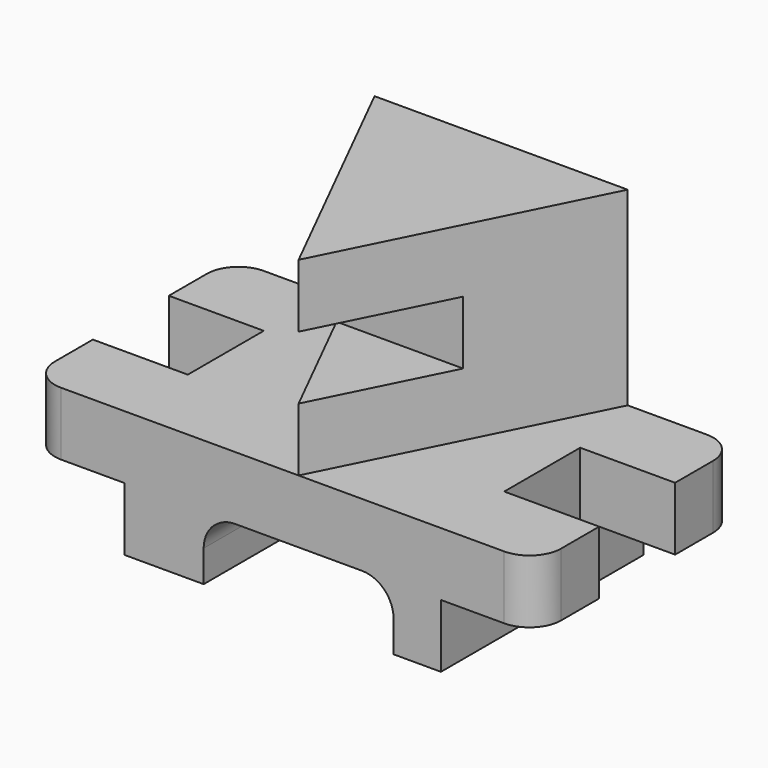
from build123d import *

# Parameters (mm, degrees)
F1_DEPTH  = 50.8
F3_DEPTH  = 76.2
F5_DEPTH  = 50.8
F7_DEPTH  = 101.601
F8_W      = 25.4
F8_H      = 25.4
F8_W_2    = 12.7
F9_DEPTH  = 101.601
F10_W     = 12.7
F10_H     = 25.4
F10_W_2   = 25.4
F11_DEPTH = 101.601


with BuildPart() as f1:
    # F0 (on Top) → F1 (new body)
    with BuildSketch(Plane.XY):
        with BuildLine():
            Line((-107.963779, 54.715565), (-107.963779, 35.665565))
            Line((-107.963779, 35.665565), (-69.863779, 35.665565))
            Line((-69.863779, 35.665565), (-69.863779, -2.434435))
            Line((-69.863779, -2.434435), (-107.963779, -2.434435))
            Line((-107.963779, -2.434435), (-107.963779, -21.484435))
            ThreePointArc((-107.963779, -21.484435), (-104.244035, -30.464691), (-95.263779, -34.184435))
            Line((-95.263779, -34.184435), (82.536221, -34.184435))
            ThreePointArc((82.536221, -34.184435), (91.516477, -30.464691), (95.236221, -21.484435))
            Line((95.236221, -21.484435), (95.236221, -2.434435))
            Line((95.236221, -2.434435), (57.136221, -2.434435))
            Line((57.136221, -2.434435), (57.136221, 35.665565))
            Line((57.136221, 35.665565), (95.236221, 35.665565))
            Line((95.236221, 35.665565), (95.236221, 54.715565))
            ThreePointArc((95.236221, 54.715565), (91.516477, 63.695821), (82.536221, 67.415565))
            Line((82.536221, 67.415565), (-95.263779, 67.415565))
            ThreePointArc((-95.263779, 67.415565), (-104.244035, 63.695821), (-107.963779, 54.715565))
        make_face()
    extrude(amount=F1_DEPTH)

    # F2 (on face) → F3 (join)
    with BuildSketch(Plane.XY.offset(50.8)):
        Polygon((-50.8, 67.415565), (0, -34.184435), (50.8, 67.415565), align=None)
    extrude(amount=F3_DEPTH)

    # F4 (on face) → F5 (cut)
    with BuildSketch(Plane.XZ.offset(34.184435)):
        Polygon((0, 101.6), (-25.4, 101.6), (-25.4, 76.2), (25.4, 76.2), (25.4, 101.6), align=None)
    extrude(amount=-F5_DEPTH, mode=Mode.SUBTRACT)

    # F6 (on face) → F7 (cut, through all)
    with BuildSketch(Plane.XZ.offset(34.184435)):
        with BuildLine():
            Line((-38.1, 12.7), (-38.1, 0))
            Line((-38.1, 0), (0, 0))
            Line((0, 0), (0, 25.4))
            Line((0, 25.4), (-25.4, 25.4))
            ThreePointArc((-25.4, 25.4), (-34.380256, 21.680256), (-38.1, 12.7))
        make_face()
        with BuildLine():
            Line((0, 25.4), (0, 0))
            Line((0, 0), (38.1, 0))
            Line((38.1, 0), (38.1, 12.7))
            ThreePointArc((38.1, 12.7), (34.380256, 21.680256), (25.4, 25.4))
            Line((25.4, 25.4), (0, 25.4))
        make_face()
    extrude(amount=-F7_DEPTH, mode=Mode.SUBTRACT)

    # F8 (on face) → F9 (cut, through all)
    with BuildSketch(Plane.XZ.offset(34.184435)):
        with Locations((-82.563779, 12.7)):
            Rectangle(F8_W, F8_H)
        with Locations((-101.613779, 12.7)):
            Rectangle(F8_W_2, F8_H)
    extrude(amount=-F9_DEPTH, mode=Mode.SUBTRACT)

    # F10 (on face) → F11 (cut, through all)
    with BuildSketch(Plane.XZ.offset(34.184435)):
        with Locations((88.886221, 12.7)):
            Rectangle(F10_W, F10_H)
        with Locations((69.836221, 12.7)):
            Rectangle(F10_W_2, F10_H)
    extrude(amount=-F11_DEPTH, mode=Mode.SUBTRACT)


solid = f1.part
